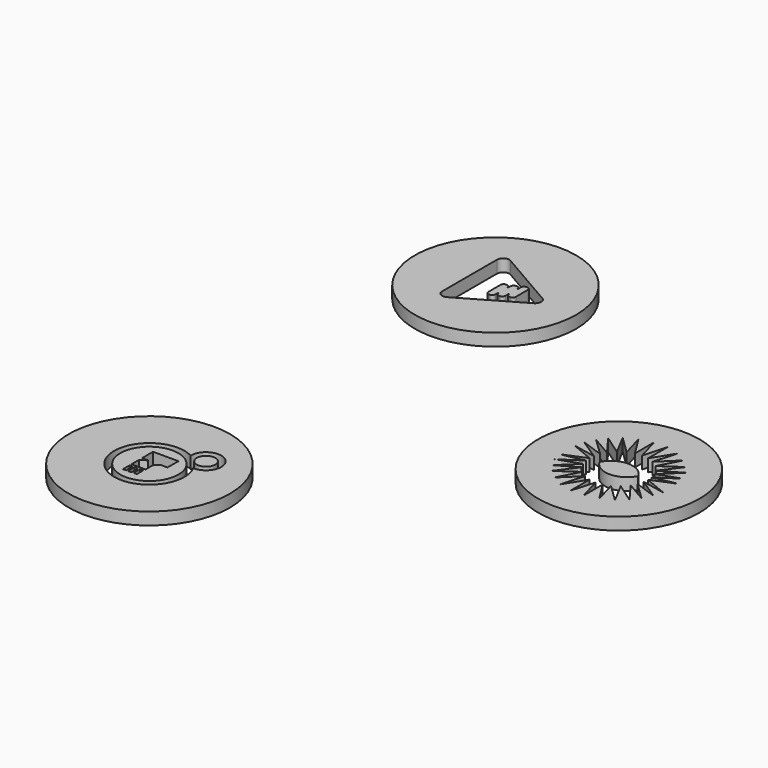
from build123d import *

# Parameters (mm, degrees)
F0_R     = 13.1
F1_DEPTH = 2
F3_DEPTH = 2
F2_R     = 13.1
F4_R     = 13.1
F5_DEPTH = 2
F4_R_2   = 1.5
F4_R_3   = 4.720675959
F4_W     = 0.5238242447
F4_H     = 1.3095550239
F7_DEPTH = 2


with BuildPart() as f1:
    # F0 (on Top) → F1 (new body)
    with BuildSketch(Plane.XY):
        Circle(F0_R)
        Polygon((-1.0733311857, 8.5085036043), (0, 4.73), (1.0733311857, 8.5085036043), (1.0733311857, 4.6066104856), (3.1767945382, 7.9658426974), (2.1126727823, 4.2319633405), (4.9654196676, 6.9922300407), (3.1394469995, 3.5379051057), (6.3489288674, 5.7652212147), (3.9732828103, 2.5663054591), (7.302839339, 4.4961328948), (4.403985486, 1.72563375), (8.0336946235, 3.0010704948), (4.6643889337, 0.7850960928), (8.4377682627, 1.5332123671), (4.73, 0), (8.4377682627, -1.5332123671), (4.6643889337, -0.7850960928), (8.0336946235, -3.0010704948), (4.403985486, -1.72563375), (7.302839339, -4.4961328948), (3.9732828103, -2.5663054591), (6.3489288674, -5.7652212147), (3.1394469995, -3.5379051057), (4.9654196676, -6.9922300407), (2.1126727823, -4.2319633405), (3.1767945382, -7.9658426974), (1.0733311857, -4.6066104856), (1.0733311857, -8.5085036043), (0, -4.73), (-1.0733311857, -8.5085036043), (-1.0733311857, -4.6066104856), (-3.1767945382, -7.9658426974), (-2.1126727823, -4.2319633405), (-4.9654196676, -6.9922300407), (-3.1394469995, -3.5379051057), (-6.3489288674, -5.7652212147), (-3.9732828103, -2.5663054591), (-7.302839339, -4.4961328948), (-4.403985486, -1.72563375), (-8.0336946235, -3.0010704948), (-4.6643889337, -0.7850960928), (-8.4377682627, -1.5332123671), (-4.73, 0), (-8.4377682627, 1.5332123671), (-4.6643889337, 0.7850960928), (-8.0336946235, 3.0010704948), (-4.403985486, 1.72563375), (-7.302839339, 4.4961328948), (-3.9732828103, 2.5663054591), (-6.3489288674, 5.7652212147), (-3.1394469995, 3.5379051057), (-4.9654196676, 6.9922300407), (-2.1126727823, 4.2319633405), (-3.1767945382, 7.9658426974), (-1.0733311857, 4.6066104856), align=None, mode=Mode.SUBTRACT)
    extrude(amount=F1_DEPTH)


with BuildPart() as f3:
    # F2 (on Top) → F3 (new body)
    with BuildSketch(Plane.XY):
        with BuildLine():
            ThreePointArc((-39.7374145687, 31.2168422043), (-39.8838611781, 31.5703955949), (-40.2374145687, 31.7168422043))
            Line((-40.2374145687, 31.7168422043), (-40.3667549491, 31.7168422043))
            ThreePointArc((-40.3667549491, 31.7168422043), (-40.7203083397, 31.5703955949), (-40.8667549491, 31.2168422043))
            Line((-40.8667549491, 31.2168422043), (-40.8667549491, 30.6146760359))
            Line((-40.8667549491, 30.6146760359), (-40.9524645656, 30.6146760359))
            ThreePointArc((-40.9524645656, 30.6146760359), (-41.098911175, 30.9682294265), (-41.4524645656, 31.1146760359))
            Line((-41.4524645656, 31.1146760359), (-41.5818049461, 31.1146760359))
            ThreePointArc((-41.5818049461, 31.1146760359), (-41.9353583367, 30.9682294265), (-42.0818049461, 30.6146760359))
            Line((-42.0818049461, 30.6146760359), (-42.0818049461, 30.1166922674))
            Line((-42.0818049461, 30.1166922674), (-42.1808343381, 30.1166922674))
            ThreePointArc((-42.1808343381, 30.1166922674), (-42.3272809475, 30.470245658), (-42.6808343381, 30.6166922674))
            Line((-42.6808343381, 30.6166922674), (-42.8101747185, 30.6166922674))
            ThreePointArc((-42.8101747185, 30.6166922674), (-43.1637281091, 30.470245658), (-43.3101747185, 30.1166922674))
            Line((-43.3101747185, 30.1166922674), (-43.3101747185, 27.6580899134))
            ThreePointArc((-43.3101747185, 27.6580899134), (-43.1637281091, 27.3045365228), (-42.8101747185, 27.1580899134))
            Line((-42.8101747185, 27.1580899134), (-42.6808343381, 27.1580899134))
            ThreePointArc((-42.6808343381, 27.1580899134), (-42.3272809475, 27.3045365228), (-42.1808343381, 27.6580899134))
            Line((-42.1808343381, 27.6580899134), (-42.1808343381, 28.156073682))
            Line((-42.1808343381, 28.156073682), (-42.0818049461, 28.156073682))
            ThreePointArc((-42.0818049461, 28.156073682), (-41.9353583367, 27.8025202914), (-41.5818049461, 27.656073682))
            Line((-41.5818049461, 27.656073682), (-41.4524645656, 27.656073682))
            ThreePointArc((-41.4524645656, 27.656073682), (-41.098911175, 27.8025202914), (-40.9524645656, 28.156073682))
            Line((-40.9524645656, 28.156073682), (-40.9524645656, 28.7582398504))
            Line((-40.9524645656, 28.7582398504), (-40.8667549491, 28.7582398504))
            ThreePointArc((-40.8667549491, 28.7582398504), (-40.7203083397, 28.4046864598), (-40.3667549491, 28.2582398504))
            Line((-40.3667549491, 28.2582398504), (-40.2374145687, 28.2582398504))
            ThreePointArc((-40.2374145687, 28.2582398504), (-39.8838611781, 28.4046864598), (-39.7374145687, 28.7582398504))
            Line((-39.7374145687, 28.7582398504), (-39.7374145687, 31.2168422043))
        make_face()
    extrude(amount=F3_DEPTH)


with BuildPart() as f3b:
    # F2 (on Top) → F3, piece 2 (new body)
    with BuildSketch(Plane.XY):
        with Locations((-43.7684245408, 29.6763181686)):
            Circle(F2_R)
        with BuildLine():
            ThreePointArc((-36.85361588, 30.5423435724), (-36.35361588, 29.6763181686), (-36.85361588, 28.8102927649))
            Line((-36.85361588, 28.8102927649), (-46.4758288711, 23.2549055042))
            ThreePointArc((-46.4758288711, 23.2549055042), (-47.4758288711, 23.2549055042), (-47.9758288711, 24.120930908))
            Line((-47.9758288711, 24.120930908), (-47.9758288711, 35.2317054293))
            ThreePointArc((-47.9758288711, 35.2317054293), (-47.4758288711, 36.097730833), (-46.4758288711, 36.097730833))
            Line((-46.4758288711, 36.097730833), (-36.85361588, 30.5423435724))
        make_face(mode=Mode.SUBTRACT)
    extrude(amount=F3_DEPTH)


with BuildPart() as f5:
    # F4 (on Top) → F5 (new body)
    with BuildSketch(Plane.XY):
        with Locations((-47.3701506853, -36.0964685678)):
            Circle(F4_R)
        with BuildLine():
            ThreePointArc((-44.7038361124, -31.0351545067), (-40.4151887582, -29.3052944653), (-42.2467432767, -33.5515068878))
            ThreePointArc((-42.2467432767, -33.5515068878), (-51.4631873897, -40.0931151576), (-44.7038361124, -31.0351545067))
        make_face(mode=Mode.SUBTRACT)
    extrude(amount=F5_DEPTH)


with BuildPart() as f5b:
    # F4 (on Top) → F5, piece 2 (new body)
    with BuildSketch(Plane.XY):
        with Locations((-42.2038920224, -31.0518741608)):
            Circle(F4_R_2)
    extrude(amount=F5_DEPTH)


with BuildPart() as f5c:
    # F4 (on Top) → F5, piece 3 (new body)
    with BuildSketch(Plane.XY):
        with Locations((-47.3701506853, -36.0964685678)):
            Circle(F4_R_3)
        with Locations((-48.8171372563, -38.6720318347)):
            Rectangle(F4_W, F4_H, mode=Mode.SUBTRACT)
        with Locations((-47.9673407972, -38.6631265283)):
            Rectangle(F4_W, F4_H, mode=Mode.SUBTRACT)
        with Locations((-47.1089147031, -38.6386029422)):
            Rectangle(F4_W, F4_H, mode=Mode.SUBTRACT)
        with BuildLine():
            Line((-46.7873290181, -33.2126356661), (-44.9539572001, -33.2126356661))
            Line((-44.9539572001, -33.2126356661), (-44.9539572001, -35.4388765991))
            Line((-44.9539572001, -35.4388765991), (-45.7873290181, -35.4388765991))
            ThreePointArc((-45.7873290181, -35.4388765991), (-46.4944357993, -35.7317698179), (-46.7873290181, -36.4388765991))
            Line((-46.7873290181, -36.4388765991), (-46.7873290181, -37.5996418297))
            Line((-46.7873290181, -37.5996418297), (-49.0790493786, -37.5996418297))
            Line((-49.0790493786, -37.5996418297), (-49.0790493786, -36.0964685678))
            Line((-49.0790493786, -36.0964685678), (-48.096884042, -35.4388765991))
            Line((-48.096884042, -35.4388765991), (-49.0790493786, -35.4388765991))
            Line((-49.0790493786, -35.4388765991), (-49.0790493786, -33.2126356661))
            Line((-49.0790493786, -33.2126356661), (-46.7873290181, -33.2126356661))
        make_face(mode=Mode.SUBTRACT)
    extrude(amount=F5_DEPTH)


with BuildPart() as f7:
    # F6 (on face) → F7 (new body)
    with BuildSketch(Plane.XY.offset(2)):
        with BuildLine():
            ThreePointArc((3.1499457546, 0), (0.0193092274, 1.879606606), (-3.1113272998, 0))
            ThreePointArc((-3.1113272998, 0), (0.0193092274, -1.879606606), (3.1499457546, 0))
        make_face()
    extrude(amount=-F7_DEPTH)


solid = Compound([f1.part, f3.part, f3b.part, f5.part, f5b.part, f5c.part, f7.part])
